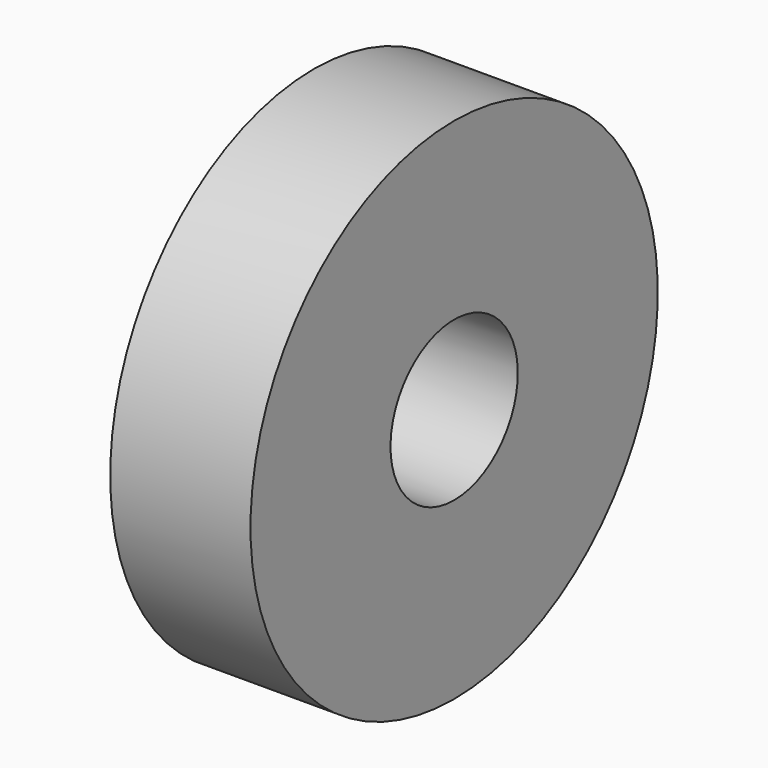
from build123d import *

# Parameters (mm, degrees)
SKETCH001_R         = 3.96875
EXTRUDE001_DEPTH    = 7
SKETCH_R            = 12.7
EXTRUDE_DEPTH       = 7
CUT_PLACEMENT_ANGLE = 90


with BuildPart() as extrude001:
    # Sketch001 (on Face2 of Extrude) → Extrude001 (new body)
    with BuildSketch(Plane(origin=(0, 0, 0), x_dir=(1, 0, 0), z_dir=(0, 0, -1))):
        Circle(SKETCH001_R)
    extrude(amount=-EXTRUDE001_DEPTH)


with BuildPart() as obj1:
    # Sketch → Extrude (new body)
    with BuildSketch(Plane.XY):
        Circle(SKETCH_R)
    extrude(amount=EXTRUDE_DEPTH)

    # Cut: cut Extrude001
    add(extrude001.part, mode=Mode.SUBTRACT)


with BuildPart() as obj1_1:
    # Cut placement: moved
    add(obj1.part.rotate(Axis((0, 0, 0), (0, 1, 0)), CUT_PLACEMENT_ANGLE))


solid = obj1_1.part
